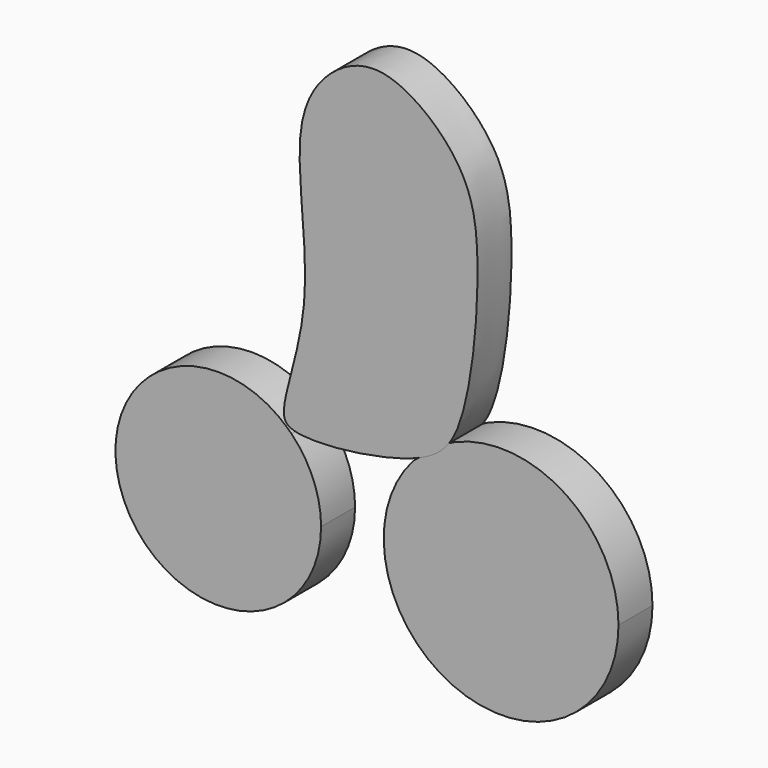
from build123d import *

# Parameters (mm, degrees)
F2_DEPTH = 5.08


with BuildPart() as f2:
    # F0 (on Front) → F2 (new body)
    with BuildSketch(Plane.XZ):
        with BuildLine():
            add(Edge.make_bspline(
                [(-47.6963467753, 30.1582338896), (-47.8439465798, 30.2796715133), (-47.976959709, 30.4086223349), (-48.0941857104, 30.544806257)],
                knots=[0.9910728034, 0.9910728034, 0.9910728034, 0.9910728034, 1, 1, 1, 1], degree=3))
            ThreePointArc((-48.0941857104, 30.544806257), (-67.7284497513, 16.6240370265), (-44.1667827873, 21.5372834355))
            ThreePointArc((-44.1667827873, 21.5372834355), (-45.0833426062, 26.1950352719), (-47.6963467753, 30.1582338896))
        make_face()
    extrude(amount=F2_DEPTH)


with BuildPart() as f2b:
    # F0 (on Front) → F2, piece 2 (new body)
    with BuildSketch(Plane.XZ):
        with BuildLine():
            add(Edge.make_bspline(
                [(-31.1024809886, 33.9433083131), (-31.7301449624, 33.2401478576), (-32.4133953493, 32.6161659287), (-33.1343020253, 32.0671789499)],
                knots=[0.8144411753, 0.8144411753, 0.8144411753, 0.8144411753, 0.8364262461, 0.8364262461, 0.8364262461, 0.8364262461], degree=3))
            ThreePointArc((-33.1343020253, 32.0671789499), (-27.63084389, 9.6271518818), (-8.6107121744, 22.744981572))
            ThreePointArc((-8.6107121744, 22.744981572), (-16.389569832, 35.3076463589), (-31.1024809886, 33.9433083131))
        make_face()
    extrude(amount=F2_DEPTH)


with BuildPart() as f2c:
    # F1 (on Front) → F2, piece 3 (new body)
    with BuildSketch(Plane.XZ):
        with BuildLine():
            add(Edge.make_bspline(
                [(-47.402150929, 30.5950194597), (-48.406273299, 30.8919207434), (-49.2669246476, 32.7473580648), (-44.4016440946, 44.9633616865), (-48.2045608369, 62.1853811147), (-43.6474632452, 70.0828699394), (-36.4304838187, 73.2924805697), (-26.6160776593, 65.5846582147), (-24.8418319742, 55.6676428134), (-26.5130970793, 37.6443417546), (-31.537228172, 31.4320018474), (-44.8014529387, 29.8260389102), (-47.402150929, 30.5950194597)],
                knots=[0, 0, 0, 0, 0.0462371122, 0.1562081569, 0.2888541791, 0.3780455943, 0.4582823234, 0.5606401319, 0.6616890364, 0.7917497934, 0.8802449101, 1, 1, 1, 1], degree=3))
        make_face()
    extrude(amount=F2_DEPTH)


solid = Compound([f2.part, f2b.part, f2c.part])
